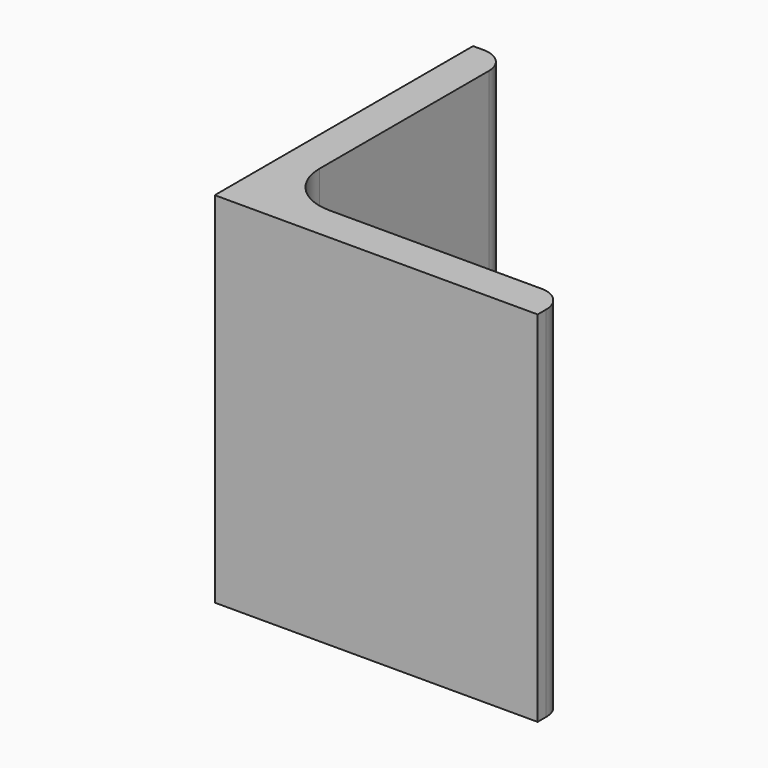
from build123d import *

# Parameters (mm, degrees)
EXTRUDE_DEPTH = 50


with BuildPart() as part:
    # Sketch → Extrude (new body)
    with BuildSketch(Plane.XY):
        with BuildLine():
            Line((0, 0), (45, 0))
            Line((45, 0), (45, 1.5))
            ThreePointArc((45, 1.5), (43.974874, 3.974874), (41.5, 5))
            Line((41.5, 5), (12, 5))
            ThreePointArc((5, 12), (7.050253, 7.050253), (12, 5))
            Line((5, 41.5), (5, 12))
            ThreePointArc((5, 41.5), (3.974874, 43.974874), (1.5, 45))
            Line((0, 45), (1.5, 45))
            Line((0, 0), (0, 45))
        make_face()
    extrude(amount=EXTRUDE_DEPTH)


solid = part.part
